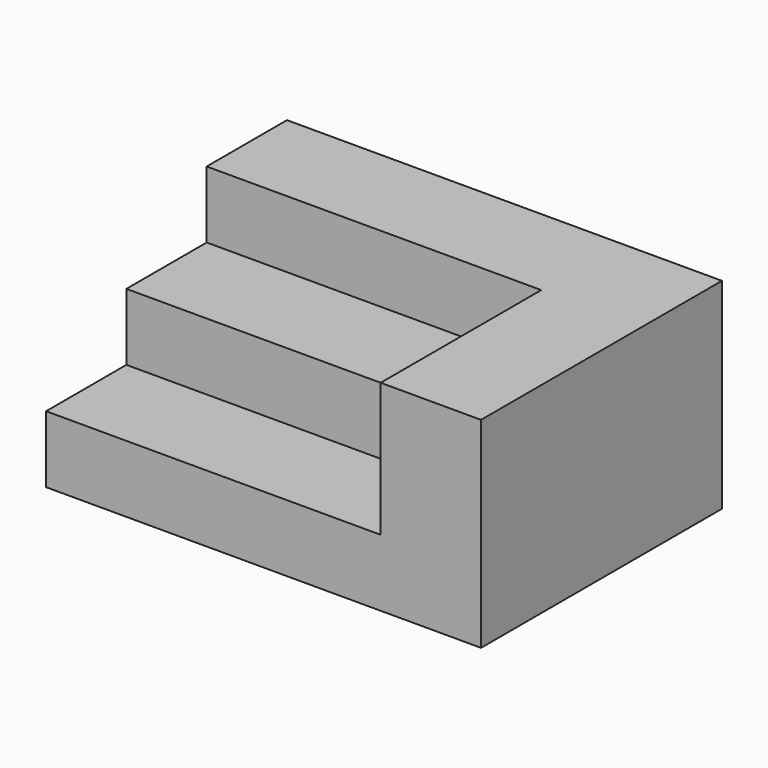
from build123d import *

# Parameters (mm, degrees)
F0_W     = 2641.6
F0_H     = 1828.8
F1_DEPTH = 1219.2
F2_W     = 2032
F2_H     = 1219.2
F3_DEPTH = 812.8
F4_W     = 2032
F4_H     = 609.6
F5_DEPTH = 406.4


with BuildPart() as f1:
    # F0 (on Top) → F1 (new body)
    with BuildSketch(Plane.XY):
        Rectangle(F0_W, F0_H)
    extrude(amount=F1_DEPTH)

    # F2 (on face) → F3 (cut)
    with BuildSketch(Plane.XY.offset(1219.2)):
        with Locations((-304.8, -304.8)):
            Rectangle(F2_W, F2_H)
    extrude(amount=-F3_DEPTH, mode=Mode.SUBTRACT)

    # F4 (on face) → F5 (join)
    with BuildSketch(Plane.XY.offset(406.4)):
        with Locations((-304.8, 0)):
            Rectangle(F4_W, F4_H)
    extrude(amount=F5_DEPTH)


solid = f1.part
